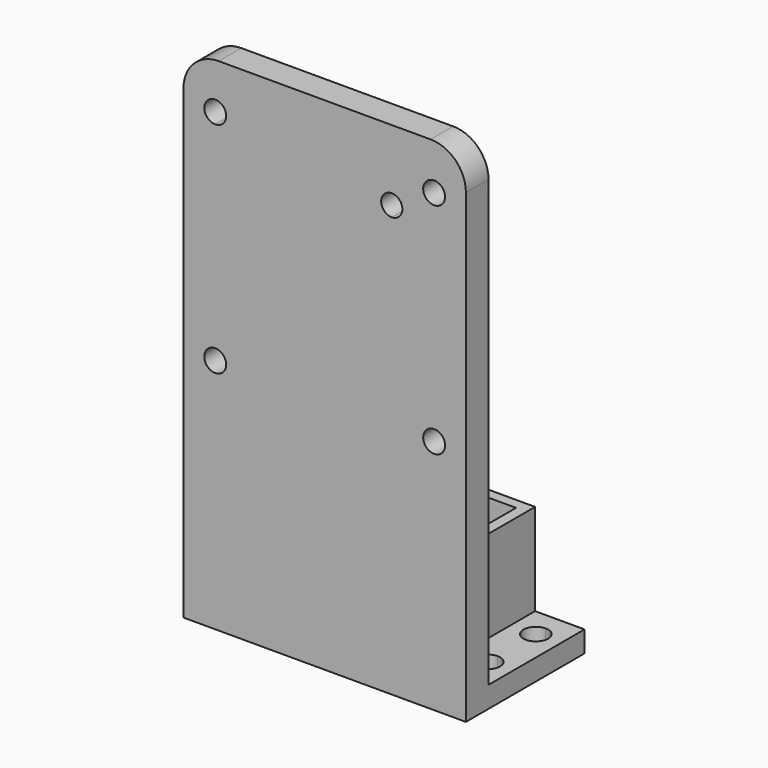
from build123d import *

# Parameters (mm, degrees)
F0_W      = 40
F0_H      = 71
F1_DEPTH  = 4
F3_DEPTH  = 25
F4_W      = 21.5
F4_H      = 16
F5_DEPTH  = 17
F6_W      = 18.5
F6_H      = 15.5
F7_DEPTH  = 25
F8_W      = 17
F8_H      = 3
F9_DEPTH  = 7
F10_W     = 17
F10_H     = 3
F11_DEPTH = 7
F13_DEPTH = 25
F15_DEPTH = 25
F17_DEPTH = 10
F18_DEPTH = 25
F20_R     = 5
F21_DEPTH = 10
F22_R     = 2.0074769643
F23_DEPTH = 4
F25_DEPTH = 25


with BuildPart() as f1:
    # F0 (on Front) → F1 (new body)
    with BuildSketch(Plane.XZ):
        Rectangle(F0_W, F0_H)
    extrude(amount=F1_DEPTH)

    # F2 (on face) → F3 (cut)
    with BuildSketch(Plane.XZ.offset(4)):
        with BuildLine():
            ThreePointArc((17.05, -2), (15.5, -0.45), (13.95, -2))
            ThreePointArc((13.95, -2), (15.5, -3.55), (17.05, -2))
        make_face()
        with BuildLine():
            ThreePointArc((-13.95, -2), (-14.4039844892, -0.9039844892), (-15.5, -0.45))
            Line((-15.5, -0.45), (-15.5, -2))
            Line((-15.5, -2), (-13.95, -2))
        make_face()
        with BuildLine():
            Line((-15.5, -2), (-15.5, -0.45))
            ThreePointArc((-15.5, -0.45), (-16.5960155108, -3.0960155108), (-13.95, -2))
            Line((-13.95, -2), (-15.5, -2))
        make_face()
        with BuildLine():
            ThreePointArc((-15.5, 27.45), (-14.4039844892, 27.9039844892), (-13.95, 29))
            Line((-13.95, 29), (-15.5, 29))
            Line((-15.5, 29), (-15.5, 27.45))
        make_face()
        with BuildLine():
            Line((-15.5, 29), (-13.95, 29))
            ThreePointArc((-13.95, 29), (-14.4039844892, 30.0960155108), (-15.5, 30.55))
            Line((-15.5, 30.55), (-15.5, 29))
        make_face()
        with BuildLine():
            ThreePointArc((17.05, 29), (15.5, 30.55), (13.95, 29))
            ThreePointArc((13.95, 29), (15.5, 27.45), (17.05, 29))
        make_face()
        with BuildLine():
            Line((-15.5, 27.45), (-15.5, 29))
            Line((-15.5, 29), (-15.5, 30.55))
            ThreePointArc((-15.5, 30.55), (-17.05, 29), (-15.5, 27.45))
        make_face()
    extrude(amount=-F3_DEPTH, mode=Mode.SUBTRACT)

    # F4 (on face) → F5 (join)
    with BuildSketch(Plane(origin=(0, 0, 0), x_dir=(-1, 0, 0), z_dir=(0, 1, 0))):
        with Locations((-2.25, -27.5)):
            Rectangle(F4_W, F4_H)
    extrude(amount=F5_DEPTH)

    # F6 (on face) → F7 (cut)
    with BuildSketch(Plane.XY.offset(-19.5)):
        with Locations((2.25, 7.75)):
            Rectangle(F6_W, F6_H)
    extrude(amount=-F7_DEPTH, mode=Mode.SUBTRACT)

    # F8 (on face) → F9 (join)
    with BuildSketch(Plane.YZ.offset(13)):
        with Locations((8.5, -34)):
            Rectangle(F8_W, F8_H)
    extrude(amount=F9_DEPTH)

    # F10 (on face) → F11 (join)
    with BuildSketch(Plane(origin=(-8.5, 0, 0), x_dir=(0, -1, 0), z_dir=(-1, 0, 0))):
        with Locations((-8.5, -34)):
            Rectangle(F10_W, F10_H)
    extrude(amount=F11_DEPTH)

    # F12 (on face) → F13 (cut)
    with BuildSketch(Plane.XY.offset(-32.5)):
        with BuildLine():
            Line((-12, 14.5), (-12, 11))
            ThreePointArc((-12, 11), (-10.7625631329, 11.5125631329), (-10.25, 12.75))
            ThreePointArc((-10.25, 12.75), (-10.7625631329, 13.9874368671), (-12, 14.5))
        make_face()
        with BuildLine():
            ThreePointArc((-12, 14.5), (-13.75, 12.75), (-12, 11))
            Line((-12, 11), (-12, 14.5))
        make_face()
        with BuildLine():
            ThreePointArc((-12, 6), (-13.75, 4.25), (-12, 2.5))
            Line((-12, 2.5), (-12, 6))
        make_face()
        with BuildLine():
            Line((-12, 6), (-12, 2.5))
            ThreePointArc((-12, 2.5), (-10.7625631329, 3.0125631329), (-10.25, 4.25))
            ThreePointArc((-10.25, 4.25), (-10.7625631329, 5.4874368671), (-12, 6))
        make_face()
    extrude(amount=-F13_DEPTH, mode=Mode.SUBTRACT)

    # F14 (on face) → F15 (cut)
    with BuildSketch(Plane.XY.offset(-32.5)):
        with BuildLine():
            ThreePointArc((18.25, 12.75), (17.7374368671, 13.9874368671), (16.5, 14.5))
            Line((16.5, 14.5), (16.5, 11))
            ThreePointArc((16.5, 11), (17.7374368671, 11.5125631329), (18.25, 12.75))
        make_face()
        with BuildLine():
            ThreePointArc((18.25, 4.25), (17.7374368671, 5.4874368671), (16.5, 6))
            Line((16.5, 6), (16.5, 2.5))
            ThreePointArc((16.5, 2.5), (17.7374368671, 3.0125631329), (18.25, 4.25))
        make_face()
        with BuildLine():
            Line((16.5, 2.5), (16.5, 6))
            ThreePointArc((16.5, 6), (14.75, 4.25), (16.5, 2.5))
        make_face()
        with BuildLine():
            Line((16.5, 11), (16.5, 14.5))
            ThreePointArc((16.5, 14.5), (14.75, 12.75), (16.5, 11))
        make_face()
    extrude(amount=-F15_DEPTH, mode=Mode.SUBTRACT)

    # F16 (on face) → F17 (join)
    with BuildSketch(Plane.XZ.offset(4)):
        Polygon((-20, -25.5), (-20, -35.5), (-15.5, -35.5), (-11, -35.5), (-11, -25.5), align=None)
        with BuildLine():
            ThreePointArc((-13.75, -30.5), (-14.2625631329, -31.7374368671), (-15.5, -32.25))
            ThreePointArc((-15.5, -32.25), (-16.7374368671, -29.2625631329), (-13.75, -30.5))
        make_face(mode=Mode.SUBTRACT)
    extrude(amount=F17_DEPTH)

    # F18 (cut): a face of the model
    f18_faces = [f1.faces().sort_by_distance(p)[0] for p in [
        (-15.5, -4, -30.5),
    ]]
    extrude(f18_faces, amount=-F18_DEPTH, mode=Mode.SUBTRACT)

    # F20
    f20_edges = [f1.edges().sort_by_distance(p)[0] for p in [
        (-20, -2, 35.5),
        (20, -2, 35.5),
    ]]
    fillet(f20_edges, radius=F20_R)

    # F21 (cut): a face of the model
    f21_faces = [f1.faces().sort_by_distance(p)[0] for p in [
        (-19.8654637595, -14, -30.5),
    ]]
    extrude(f21_faces, amount=-F21_DEPTH, mode=Mode.SUBTRACT)

    # F22 (on face) → F23 (join)
    with BuildSketch(Plane.XZ.offset(4)):
        with Locations((-15.5, -30.5)):
            Circle(F22_R)
    extrude(amount=-F23_DEPTH)

    # F24 (on face) → F25 (cut)
    with BuildSketch(Plane.XZ.offset(4)):
        with BuildLine():
            ThreePointArc((9.5, 24), (10.5606601718, 24.4393398282), (11, 25.5))
            ThreePointArc((11, 25.5), (8.4393398282, 26.5606601718), (9.5, 24))
        make_face()
    extrude(amount=-F25_DEPTH, mode=Mode.SUBTRACT)


solid = f1.part
